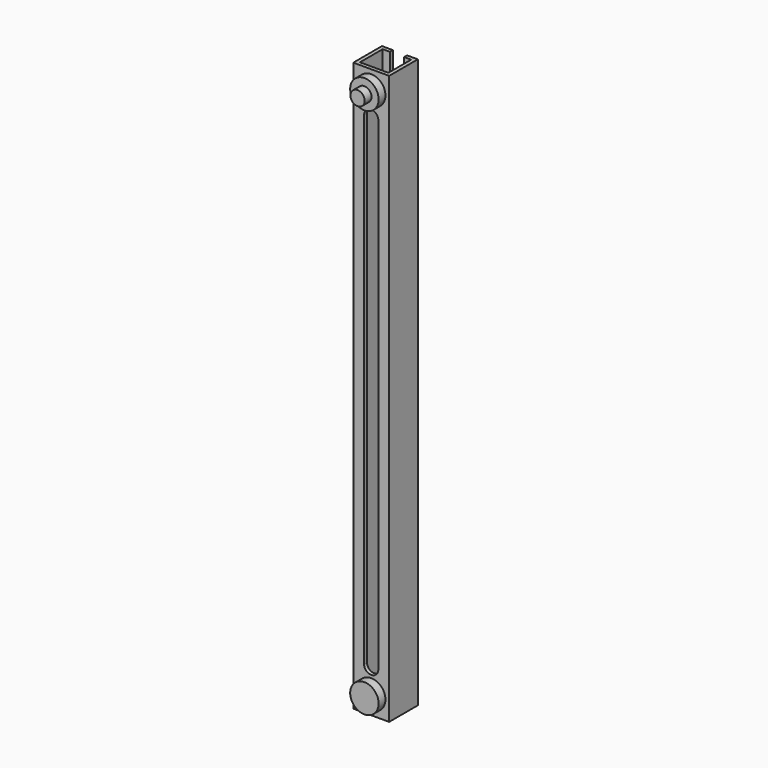
from build123d import *

# Parameters (mm, degrees)
F1_DEPTH = 508
F2_R     = 12.7
F2_R_2   = 6.35
F3_DEPTH = 7.62
F4_DEPTH = 15.24
F6_DEPTH = 3.302


with BuildPart() as f1:
    # F0 (on Top) → F1 (new body)
    with BuildSketch(Plane.XY):
        Polygon((-16.002, 32.004), (-16.002, 0), (0, 0), (16.002, 0), (16.002, 32.004), (6.35, 32.004), (6.35, 28.702), (12.7, 28.702), (12.7, 3.302), (0, 3.302), (-12.7, 3.302), (-12.7, 28.702), (-6.35, 28.702), (-6.35, 32.004), align=None)
    extrude(amount=F1_DEPTH)

    # F2 (on face) → F3 (join)
    with BuildSketch(Plane.XZ):
        with Locations((0, 491.49)):
            Circle(F2_R)
        with Locations((0, 491.49)):
            Circle(F2_R_2, mode=Mode.SUBTRACT)
        with Locations((0, 16.51)):
            Circle(F2_R)
    extrude(amount=F3_DEPTH)

    # F4 (add): a face of the model
    f4_faces = [f1.faces().sort_by_distance(p)[0] for p in [
        (0, 0, 491.49),
    ]]
    extrude(f4_faces, amount=F4_DEPTH)

    # F5 (on face) → F6 (cut, through all)
    with BuildSketch(Plane.XZ):
        with BuildLine():
            Line((-6.35, 469.9), (-6.35, 38.1))
            ThreePointArc((-6.35, 38.1), (0, 31.75), (6.35, 38.1))
            Line((6.35, 38.1), (6.35, 469.9))
            ThreePointArc((6.35, 469.9), (0, 476.25), (-6.35, 469.9))
        make_face()
    extrude(amount=-F6_DEPTH, mode=Mode.SUBTRACT)


solid = f1.part
